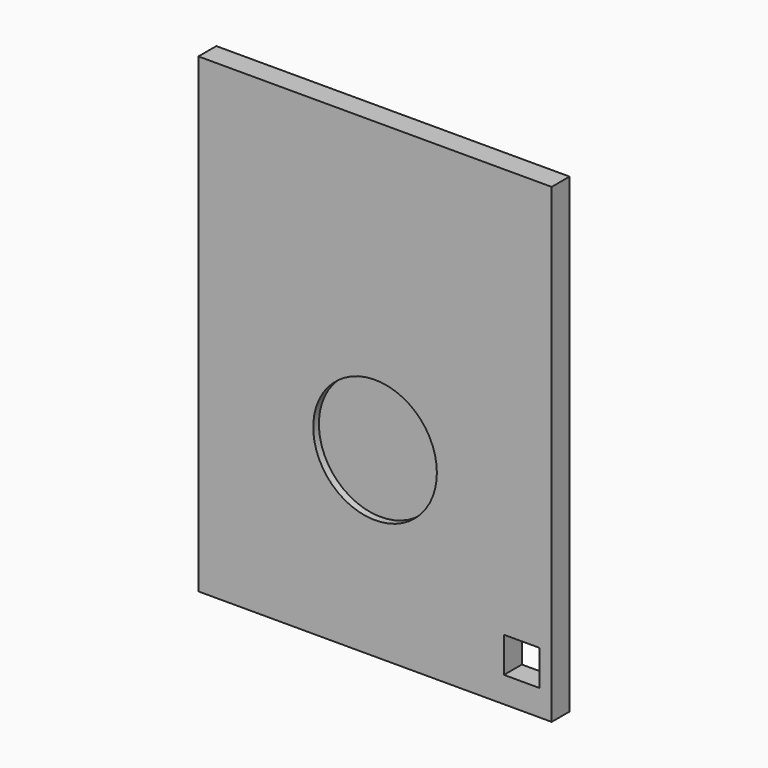
from build123d import *

# Parameters (mm, degrees)
F0_W     = 300
F0_H     = 400
F1_DEPTH = 19
F2_R     = 52.5
F3_DEPTH = 6
F5_DEPTH = 8
F6_W     = 30
F6_H     = 30
F7_DEPTH = 11


with BuildPart() as f1:
    # F0 (on Front) → F1 (new body)
    with BuildSketch(Plane.XZ):
        with Locations((-48.081684, 43.9321)):
            Rectangle(F0_W, F0_H)
    extrude(amount=F1_DEPTH)

    # F2 (on face) → F3 (cut)
    with BuildSketch(Plane.XZ.offset(19)):
        with Locations((-48.081684, -1.5679)):
            Circle(F2_R)
    extrude(amount=-F3_DEPTH, mode=Mode.SUBTRACT)

    # F4 (on face) → F5 (cut)
    with BuildSketch(Plane(origin=(0, 0, 0), x_dir=(-1, 0, 0), z_dir=(0, 1, 0))):
        Polygon((-91.418316, 233.9321), (-91.418316, -134.0679), (-61.418316, -134.0679), (-61.418316, 203.9321), (-49.918316, 203.9321), (-49.918316, -134.0679), (21.581684, -134.0679), (21.581684, 203.9321), (33.081684, 203.9321), (33.081684, -134.0679), (104.581684, -134.0679), (104.581684, 203.9321), (116.081684, 203.9321), (116.081684, -134.0679), (187.581684, -134.0679), (187.581684, 233.9321), (157.581684, 233.9321), (157.581684, -104.0679), (146.081684, -104.0679), (146.081684, 233.9321), (74.581684, 233.9321), (74.581684, -104.0679), (63.081684, -104.0679), (63.081684, 233.9321), (-8.418316, 233.9321), (-8.418316, -104.0679), (-19.918316, -104.0679), (-19.918316, 233.9321), align=None)
    extrude(amount=-F5_DEPTH, mode=Mode.SUBTRACT)

    # F6 (on face) → F7 (cut)
    with BuildSketch(Plane(origin=(0, -8, 0), x_dir=(-1, 0, 0), z_dir=(0, 1, 0))):
        with Locations((-76.418316, -119.0679)):
            Rectangle(F6_W, F6_H)
    extrude(amount=-F7_DEPTH, mode=Mode.SUBTRACT)


solid = f1.part
